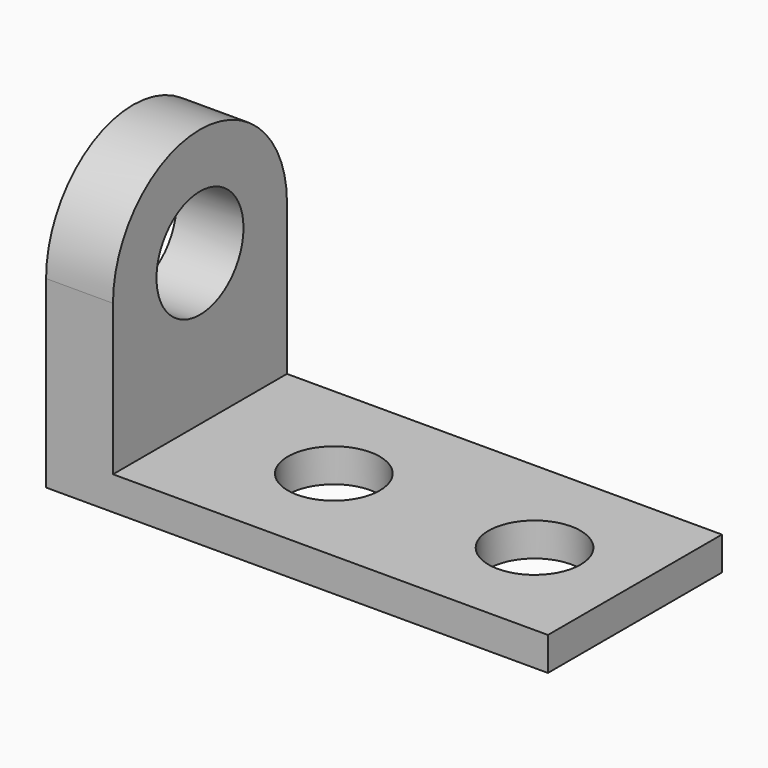
from build123d import *

# Parameters (mm, degrees)
F0_W     = 190.5
F0_H     = 12.7
F1_DEPTH = 82.55
F2_R     = 17.4625
F3_DEPTH = 25.4
F4_W     = 25.4
F4_H     = 101.6
F5_DEPTH = 82.55
F7_DEPTH = 25.4
F8_R     = 20.6375
F9_DEPTH = 25.401


with BuildPart() as f1:
    # F0 (on Front) → F1 (new body)
    with BuildSketch(Plane.XZ):
        with Locations((95.25, 6.35)):
            Rectangle(F0_W, F0_H)
    extrude(amount=F1_DEPTH)

    # F2 (on face) → F3 (cut)
    with BuildSketch(Plane.XY.offset(12.7)):
        with Locations((76.2, -41.275)):
            Circle(F2_R)
        with Locations((152.4, -41.275)):
            Circle(F2_R)
    extrude(amount=-F3_DEPTH, mode=Mode.SUBTRACT)

    # F4 (on face) → F5 (join)
    with BuildSketch(Plane.XZ.offset(82.55)):
        with Locations((12.7, 63.5)):
            Rectangle(F4_W, F4_H)
    extrude(amount=-F5_DEPTH)

    # F6 (on face) → F7 (cut)
    with BuildSketch(Plane.YZ.offset(25.4)):
        with BuildLine():
            Line((-82.55, 114.3), (-82.55, 69.85))
            ThreePointArc((-82.55, 69.85), (-41.275, 111.125), (0, 69.85))
            Line((0, 69.85), (0, 114.3))
            Line((0, 114.3), (-82.55, 114.3))
        make_face()
    extrude(amount=-F7_DEPTH, mode=Mode.SUBTRACT)

    # F8 (on face) → F9 (cut, through all)
    with BuildSketch(Plane.YZ.offset(25.4)):
        with Locations((-41.275, 69.85)):
            Circle(F8_R)
    extrude(amount=-F9_DEPTH, mode=Mode.SUBTRACT)


solid = f1.part
